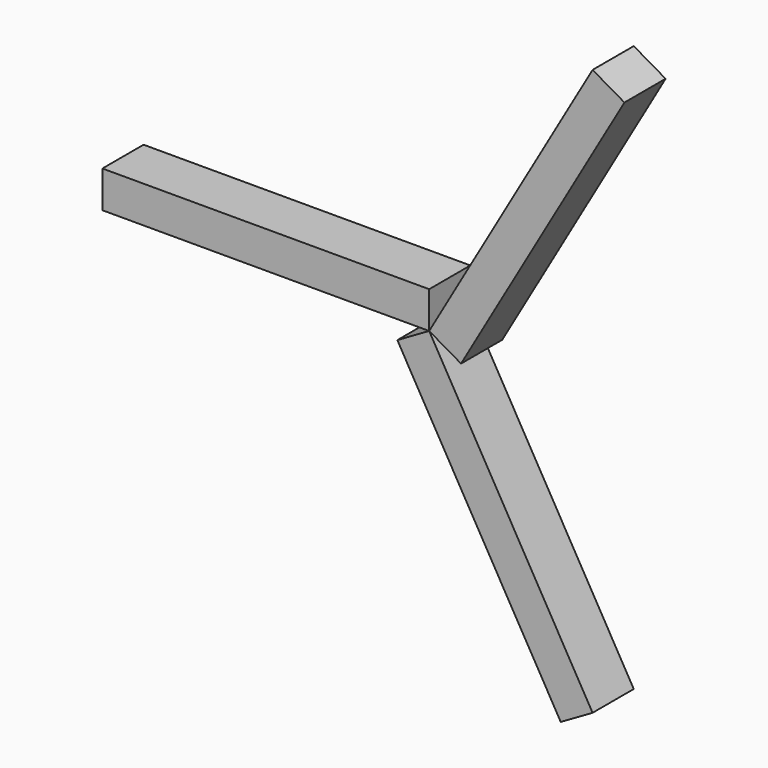
from build123d import *

# Parameters (mm, degrees)
F0_W     = 22.572632
F0_H     = 3.556
F1_DEPTH = 2.54
F2_COUNT = 3


with BuildPart() as f1:
    # F0 (on Top) → F1 (new body)
    with BuildSketch(Plane.XY):
        with Locations((-11.286316, 0)):
            Rectangle(F0_W, F0_H)
    extrude(amount=F1_DEPTH)


with BuildPart() as f2_1:
    # F2: instance of F1
    add(f1.part.rotate(Axis((0, 0, 0), (0, -1, 0)), 1 * 360 / F2_COUNT))


with BuildPart() as f2_2:
    # F2: instance of F1
    add(f1.part.rotate(Axis((0, 0, 0), (0, -1, 0)), 2 * 360 / F2_COUNT))


solid = Compound([f1.part, f2_1.part, f2_2.part])
